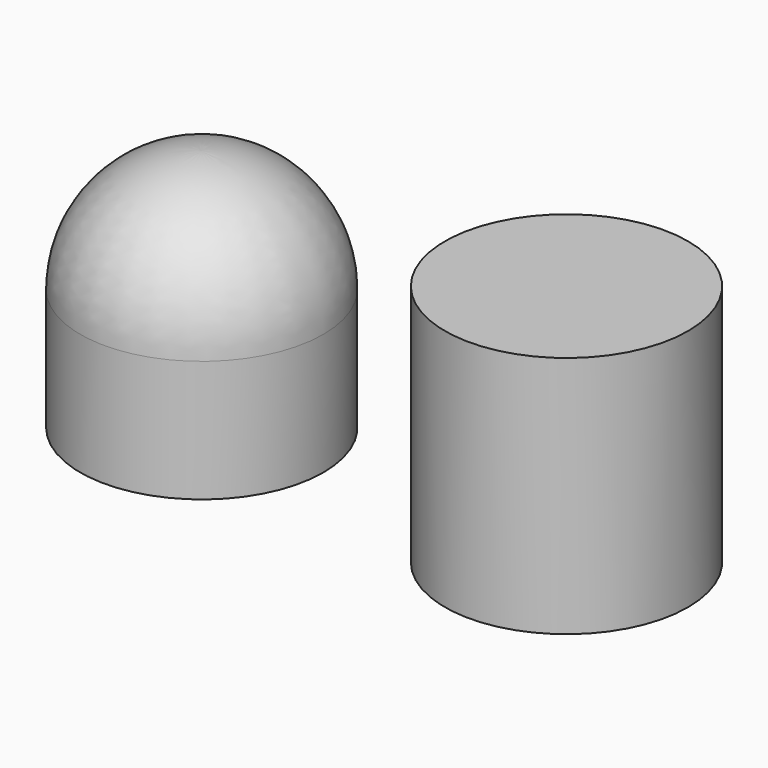
from build123d import *

# Parameters (mm, degrees)
F0_R     = 4
F1_DEPTH = 8


with BuildPart() as f1:
    # F0 (on Top) → F1 (new body)
    with BuildSketch(Plane.XY):
        Circle(F0_R)
    extrude(amount=F1_DEPTH)


with BuildPart() as f3:
    # F2 (on Front) → F3 (revolve)
    with BuildSketch(Plane.XZ):
        with BuildLine():
            Line((-12, 8), (-12, 0))
            Line((-12, 0), (-8, 0))
            Line((-8, 0), (-8, 4))
            ThreePointArc((-8, 4), (-9.171573, 6.828427), (-12, 8))
        make_face()
    revolve(axis=Axis((-12, 0, 4), (0, 0, 1)))


solid = Compound([f1.part, f3.part])
